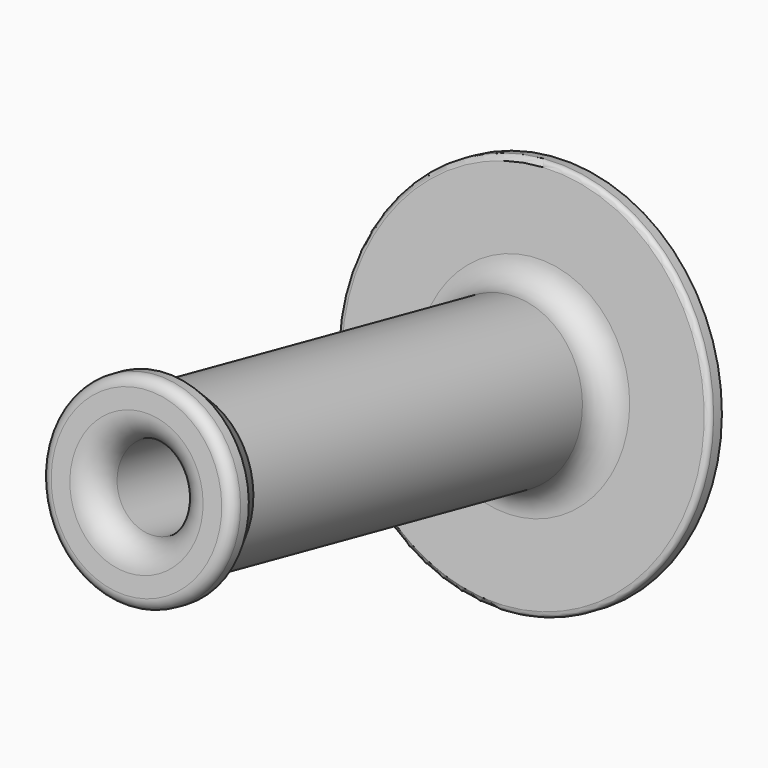
from build123d import *

# Parameters (mm, degrees)
SKETCH029_R      = 35
PAD012_DEPTH     = 3
SKETCH030_R      = 15
PAD013_DEPTH     = 93
SKETCH031_R      = 18
PAD014_DEPTH     = 4
SKETCH032_R      = 7.5
POCKET010_DEPTH  = 80
SKETCH033_R      = 2
POCKET011_DEPTH  = 9
FILLET013_R      = 5
FILLET014_R      = 1
CHAMFER004_SIZE2 = 2.99
CHAMFER004_SIZE  = 5
FILLET015_R      = 2


with BuildPart() as part:
    # Sketch029 (on DatumPlane) → Pad012 (new body)
    with BuildSketch(Plane(origin=(0, 5.625, 137.8708612235), x_dir=(-1, 0, 0), z_dir=(0, -0.9781476007, 0.2079116908))):
        with Locations((-195, 18)):
            Circle(SKETCH029_R)
    extrude(amount=PAD012_DEPTH)

    # Sketch030 (on DatumPlane) → Pad013 (join)
    with BuildSketch(Plane(origin=(0, 5.625, 137.8708612235), x_dir=(-1, 0, 0), z_dir=(0, -0.9781476007, 0.2079116908))):
        with Locations((-195, 18)):
            Circle(SKETCH030_R)
    extrude(amount=PAD013_DEPTH)

    # Sketch031 (on Face6 of Pad013) → Pad014 (join)
    with BuildSketch(Plane(origin=(0, -85.3427268682, 157.2066484695), x_dir=(-1, 0, 0), z_dir=(0, -0.9781476007, 0.2079116908))):
        with Locations((-195, 18)):
            Circle(SKETCH031_R)
    extrude(amount=PAD014_DEPTH)

    # Sketch032 (on Face3 of Pad014) → Pocket010 (cut)
    with BuildSketch(Plane(origin=(0, -89.2553172712, 158.0382952328), x_dir=(-1, 0, 0), z_dir=(0, -0.9781476007, 0.2079116908))):
        with Locations((-195, 18)):
            Circle(SKETCH032_R)
    extrude(amount=-POCKET010_DEPTH, mode=Mode.SUBTRACT)

    # Sketch033 (on ReferenceDatumPlane) → Pocket011 (cut)
    with BuildSketch(Plane(origin=(0, 5.625, 137.8708612235), x_dir=(-1, 0, 0), z_dir=(0, -0.9781476007, 0.2079116908))):
        with Locations((-195, 28)):
            Circle(SKETCH033_R)
        with Locations((-185, 18)):
            Circle(SKETCH033_R)
        with Locations((-195, 8)):
            Circle(SKETCH033_R)
        with Locations((-205, 18)):
            Circle(SKETCH033_R)
    extrude(amount=POCKET011_DEPTH, mode=Mode.SUBTRACT)

    # Fillet013
    fillet013_edges = [part.edges().sort_by_distance(p)[0] for p in [
        (210, -1.051853, 120.887939),
        (202.5, -92.997728, 140.431638),
    ]]
    fillet(fillet013_edges, radius=FILLET013_R)

    # Fillet014
    fillet014_edges = [part.edges().sort_by_distance(p)[0] for p in [
        (230, -1.051853, 120.887939),
    ]]
    fillet(fillet014_edges, radius=FILLET014_R)

    # Chamfer004
    chamfer004_edges = [part.edges().sort_by_distance(p)[0] for p in [
        (210, -89.085137, 139.599992),
    ]]
    chamfer004_side = part.faces().sort_by_distance((210, -47.513864, 130.763745))[0]
    chamfer(chamfer004_edges, length=CHAMFER004_SIZE, length2=CHAMFER004_SIZE2, reference=chamfer004_side)

    # Fillet015
    fillet015_edges = [part.edges().sort_by_distance(p)[0] for p in [
        (213, -92.997728, 140.431638),
    ]]
    fillet(fillet015_edges, radius=FILLET015_R)


solid = part.part
